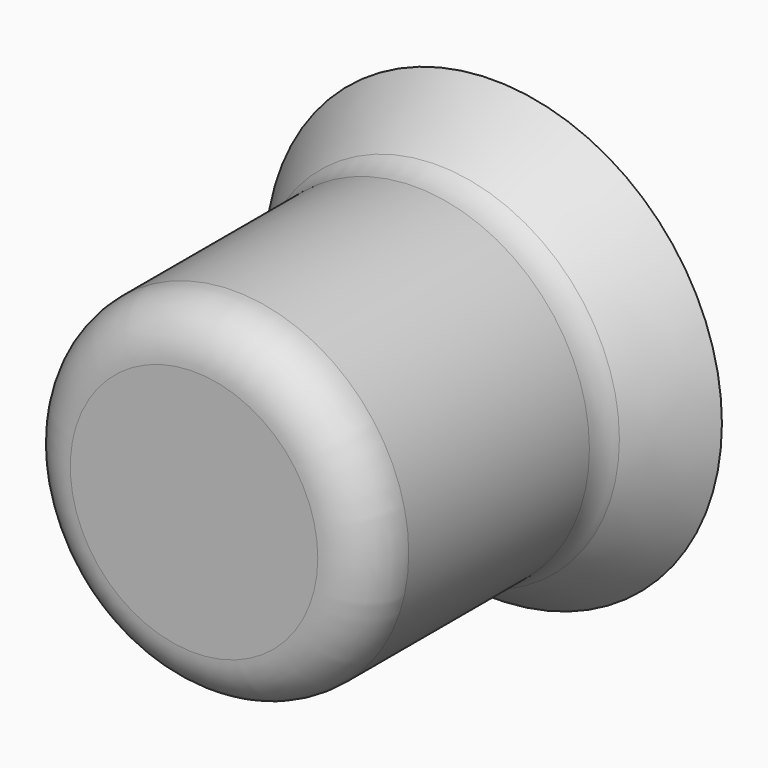
from build123d import *

# Parameters (mm, degrees)
F2_T = -2.5


with BuildPart() as f1:
    # F0 (on Top) → F1 (revolve)
    with BuildSketch(Plane.XY):
        with BuildLine():
            Line((45.150277, 51.251181), (0, 51.251181))
            Line((0, 51.251181), (0, -22.915073))
            Line((0, -22.915073), (24.495816, -22.915073))
            ThreePointArc((24.495816, -22.915073), (31.566883, -19.986141), (34.495816, -12.915073))
            Line((34.495816, -12.915073), (34.495816, 31.790896))
            ThreePointArc((34.495816, 31.790896), (34.903379, 34.616699), (36.092848, 37.212163))
            Line((36.092848, 37.212163), (45.150277, 51.251181))
        make_face()
    revolve(axis=Axis((0, 14.168054, 0), (0, 1, 0)))

    # F2
    f2_openings = [f1.faces().sort_by_distance(p)[0] for p in [
        (0, 51.251181, 0),
    ]]
    offset(amount=F2_T, openings=f2_openings)


solid = f1.part
